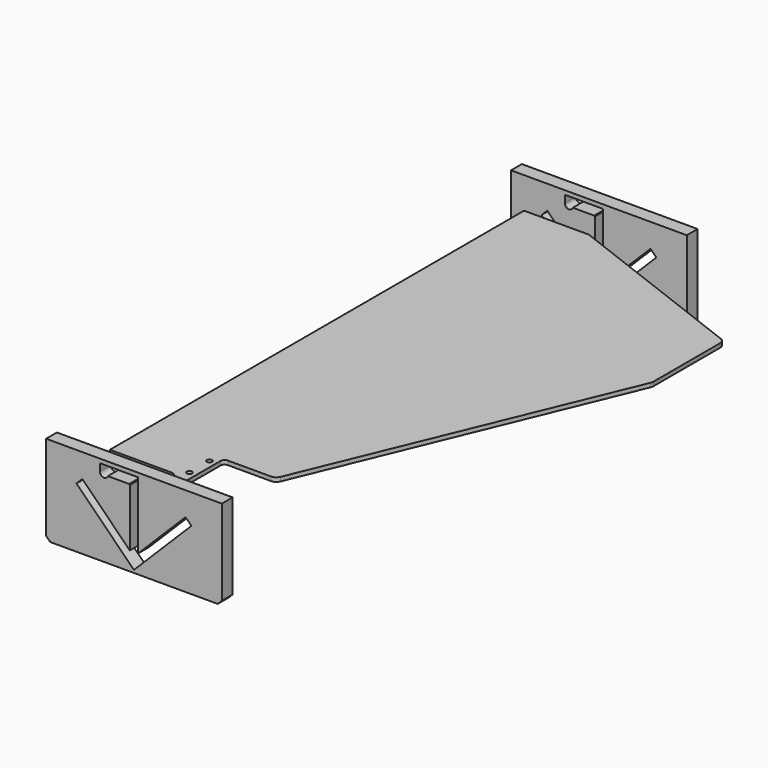
from build123d import *

# Parameters (mm, degrees)
F2_DEPTH = 10
F0_R     = 1.9
F5_DEPTH = 3


with BuildPart() as f2:
    # F1 (on Front) → F2 (new body)
    with BuildSketch(Plane.XZ):
        Polygon((-65, -48.810469), (-62, -51.810469), (62, -51.810469), (65, -48.810469), (65, 14.5), (-65, 14.5), align=None)
        with BuildLine():
            Line((3.05, 5), (3.05, -38.133766))
            Line((3.05, -38.133766), (38.183766, -3))
            Line((38.183766, -3), (42.497118, -7.313351))
            Line((42.497118, -7.313351), (0, -49.810469))
            Line((0, -49.810469), (-42.497118, -7.313351))
            Line((-42.497118, -7.313351), (-38.183766, -3))
            Line((-38.183766, -3), (-3.05, -38.133766))
            Line((-3.05, -38.133766), (-3.05, 4.5))
            Line((-3.05, 4.5), (-3.55, 5))
            Line((-3.55, 5), (-19.284271, 5))
            ThreePointArc((-19.284271, 5), (-22.620004, 3.043204), (-25.112698, 6))
            Line((-25.112698, 6), (-25.112698, 11.5))
            Line((-25.112698, 11.5), (3.05, 11.5))
            Line((3.05, 11.5), (3.05, 5))
        make_face(mode=Mode.SUBTRACT)
    extrude(amount=F2_DEPTH)


with BuildPart() as f4_1:
    # F4: instance of F2
    add(f2.part.mirror(Plane.XZ.offset(-210)))


with BuildPart() as f5:
    # F0 (on Top) → F5 (new body)
    with BuildSketch(Plane.XY):
        with BuildLine():
            ThreePointArc((48.567437, 56), (51.345288, 56.842652), (53.186834, 59.086583))
            Line((53.186834, 59.086583), (146.619398, 284.652744))
            ThreePointArc((146.619398, 284.652744), (146.903926, 285.59071), (147, 286.566161))
            Line((147, 286.566161), (147, 348.259035))
            ThreePointArc((147, 348.259035), (146.120631, 351.091066), (143.79184, 352.926937))
            Line((143.79184, 352.926937), (3.79184, 406.667902))
            ThreePointArc((3.79184, 406.667902), (2.911178, 406.916275), (2, 407))
            Line((2, 407), (-45, 407))
            Line((-45, 407), (-45, 24))
            Line((-45, 24), (1, 24))
            ThreePointArc((1, 24), (3.12132, 23.12132), (4, 21))
            Line((4, 21), (4, 5))
            Line((4, 5), (13.7, 5))
            Line((13.7, 5), (13.7, 53))
            ThreePointArc((13.7, 53), (14.578679, 55.12132), (16.7, 56))
            Line((16.7, 56), (48.567437, 56))
        make_face()
        with Locations((8.7, 12)):
            Circle(F0_R, mode=Mode.SUBTRACT)
        with Locations((8.7, 30.5)):
            Circle(F0_R, mode=Mode.SUBTRACT)
        with Locations((8.7, 49)):
            Circle(F0_R, mode=Mode.SUBTRACT)
    extrude(amount=-F5_DEPTH)


solid = Compound([f2.part, f4_1.part, f5.part])
